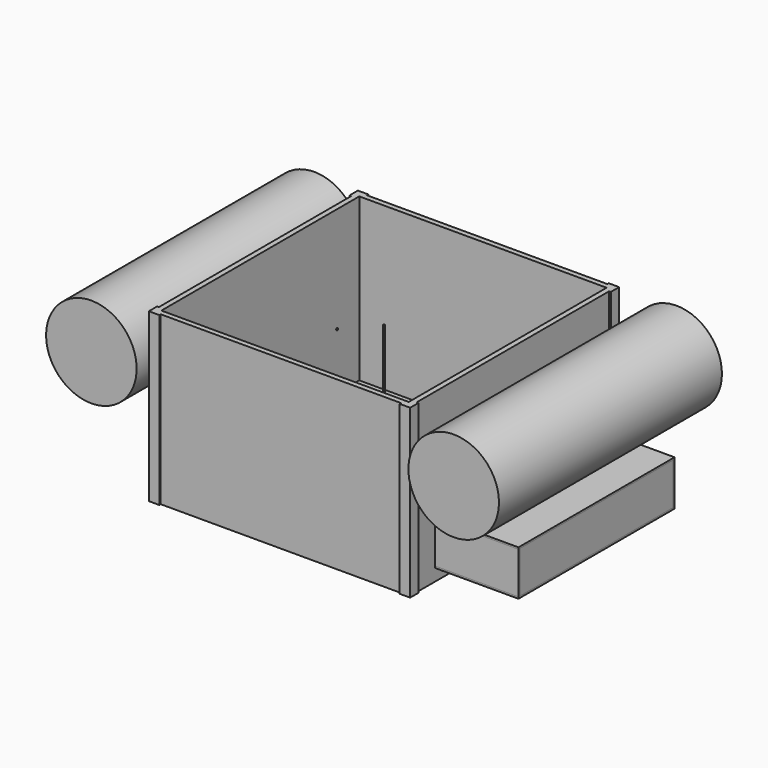
from build123d import *

# Parameters (mm, degrees)
F0_W      = 15.875
F0_H      = 3.175
F0_W_2    = 450.85
F0_H_2    = 450.85
F0_W_3    = 3.175
F0_H_3    = 15.875
F1_DEPTH  = 304.8
F2_DEPTH  = 9.525
F4_DEPTH  = 254
F7_D      = 4.318
F7_DEPTH  = 762
F7_TIP    = 1.2972580765
F9_DEPTH  = 152.4
F8_W      = 3.175
F8_H      = 76.2
F10_DEPTH = 152.4
F11_W     = 3.175
F11_H     = 349.25
F12_DEPTH = 76.2
F13_R     = 1.5875
F14_DEPTH = 254


with BuildPart() as f1:
    # F0 (on Top) → F1 (new body)
    with BuildSketch(Plane.XY):
        with Locations((227.0125, -236.5375)):
            Rectangle(F0_W, F0_H)
        Polygon((219.075, -234.95), (234.95, -234.95), (234.95, -219.075), (234.95, 219.075), (234.95, 234.95), (219.075, 234.95), (-219.075, 234.95), (-234.95, 234.95), (-234.95, 219.075), (-234.95, -219.075), (-234.95, -234.95), (-219.075, -234.95), align=None)
        Rectangle(F0_W_2, F0_H_2, mode=Mode.SUBTRACT)
        Polygon((234.95, -219.075), (234.95, -234.95), (234.95, -238.125), (238.125, -238.125), (238.125, -219.075), align=None)
        Polygon((-219.075, -238.125), (-219.075, -234.95), (-234.95, -234.95), (-238.125, -234.95), (-238.125, -238.125), align=None)
        with Locations((236.5375, 227.0125)):
            Rectangle(F0_W_3, F0_H_3)
        with Locations((-236.5375, -227.0125)):
            Rectangle(F0_W_3, F0_H_3)
        Polygon((219.075, 234.95), (234.95, 234.95), (238.125, 234.95), (238.125, 238.125), (219.075, 238.125), align=None)
        Polygon((-238.125, 219.075), (-234.95, 219.075), (-234.95, 234.95), (-234.95, 238.125), (-238.125, 238.125), align=None)
        with Locations((-227.0125, 236.5375)):
            Rectangle(F0_W, F0_H)
    extrude(amount=F1_DEPTH)

    # F0 (on Top) → F2 (join)
    with BuildSketch(Plane.XY):
        Rectangle(F0_W_2, F0_H_2)
    extrude(amount=F2_DEPTH)

    # F7
    with Locations(Plane.YZ.offset(234.95)):
        with Locations((-175.01108, 112.1537), (175.01108, 112.1537), (160.2232, 12.7), (119.1768, 12.7), (20.5232, 12.7), (-119.1768, 12.7), (-160.2232, 12.7), (-20.5232, 12.7)):
            Hole(F7_D / 2, depth=F7_DEPTH)
            with Locations((0, 0, -(F7_DEPTH + F7_TIP / 2))):  # 118° drill point
                Cone(0, F7_D / 2, F7_TIP, mode=Mode.SUBTRACT)

    # F13 (on face) → F14 (join)
    with BuildSketch(Plane.XY.offset(9.525)):
        Circle(F13_R)
    extrude(amount=F14_DEPTH)


with BuildPart() as f4:
    # F3 (on Front) → F4 (new body, symmetric)
    with BuildSketch(Plane.XZ):
        with BuildLine():
            ThreePointArc((247.65, 215.9), (330.2, 133.35), (412.75, 215.9))
            ThreePointArc((412.75, 215.9), (330.2, 298.45), (247.65, 215.9))
        make_face()
    extrude(amount=F4_DEPTH, both=True)


with BuildPart() as f5_1:
    # F5: instance of F4
    add(f4.part.mirror(Plane.YZ))


with BuildPart() as f9:
    # F8 (on face) → F9 (new body)
    with BuildSketch(Plane.YZ.offset(234.95)):
        Polygon((-177.8, 22.225), (0, 22.225), (177.8, 22.225), (177.8, 25.4), (174.625, 25.4), (-174.625, 25.4), (-177.8, 25.4), align=None)
    extrude(amount=F9_DEPTH)


with BuildPart() as f9b:
    # F8 (on face) → F9, piece 2 (new body)
    with BuildSketch(Plane.YZ.offset(234.95)):
        Polygon((-177.8, 104.775), (-177.8, 101.6), (-174.625, 101.6), (174.625, 101.6), (177.8, 101.6), (177.8, 104.775), (0, 104.775), align=None)
    extrude(amount=F9_DEPTH)


with BuildPart() as f10:
    # F8 (on face) → F10 (new body)
    with BuildSketch(Plane.YZ.offset(234.95)):
        with Locations((-176.2125, 63.5)):
            Rectangle(F8_W, F8_H)
    extrude(amount=F10_DEPTH)


with BuildPart() as f10b:
    # F8 (on face) → F10, piece 2 (new body)
    with BuildSketch(Plane.YZ.offset(234.95)):
        Polygon((174.625, 25.4), (177.8, 25.4), (177.8, 101.6), (174.625, 101.6), (174.625, 63.5), align=None)
    extrude(amount=F10_DEPTH)


with BuildPart() as f12:
    # F11 (on face) → F12 (new body, through all)
    with BuildSketch(Plane.XY.offset(25.4)):
        with Locations((385.7625, 0)):
            Rectangle(F11_W, F11_H)
    extrude(amount=F12_DEPTH)


solid = Compound([f1.part, f4.part, f5_1.part, f9.part, f9b.part, f10.part, f10b.part, f12.part])
